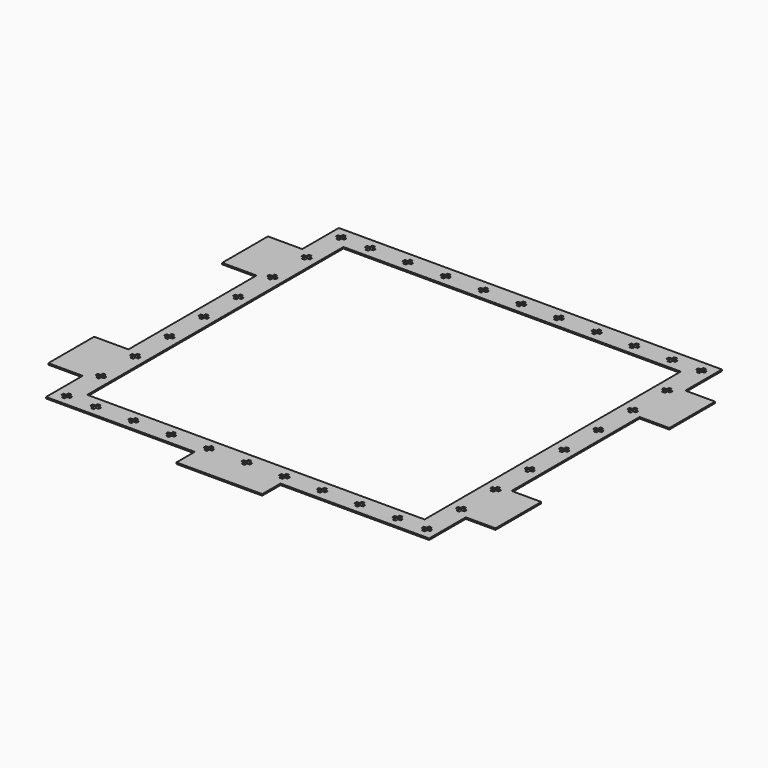
from build123d import *

# Parameters (mm, degrees)
F0_W     = 749.3
F0_H     = 711.2
F1_DEPTH = 3.175
F3_DEPTH = 25.4


with BuildPart() as f1:
    # F0 (on Top) → F1 (new body)
    with BuildSketch(Plane.XY):
        Polygon((425.45, 304.8), (425.45, 406.4), (-425.45, 406.4), (-425.45, 304.8), (-501.65, 304.8), (-501.65, 177.8), (-425.45, 177.8), (-425.45, -177.8), (-501.65, -177.8), (-501.65, -304.8), (-425.45, -304.8), (-425.45, -406.4), (-95.25, -406.4), (-95.25, -457.2), (95.25, -457.2), (95.25, -406.4), (425.45, -406.4), (425.45, -304.8), (491.49, -304.8), (491.49, -177.8), (425.45, -177.8), (425.45, 177.8), (491.49, 177.8), (491.49, 304.8), align=None)
        Rectangle(F0_W, F0_H, mode=Mode.SUBTRACT)
    extrude(amount=F1_DEPTH)

    # F2 (on face) → F3 (cut)
    with BuildSketch(Plane.XY.offset(3.175)):
        Polygon((-396.875, 3.175), (-396.875, 9.525), (-403.225, 9.525), (-403.225, 3.175), (-409.575, 3.175), (-409.575, -3.175), (-403.225, -3.175), (-403.225, -9.525), (-396.875, -9.525), (-396.875, -3.175), (-390.525, -3.175), (-390.525, 3.175), align=None)
        Polygon((-396.875, 85.725), (-396.875, 92.075), (-390.525, 92.075), (-390.525, 98.425), (-396.875, 98.425), (-396.875, 104.775), (-403.225, 104.775), (-403.225, 98.425), (-409.575, 98.425), (-409.575, 92.075), (-403.225, 92.075), (-403.225, 85.725), align=None)
        Polygon((-396.875, 180.975), (-396.875, 187.325), (-390.525, 187.325), (-390.525, 193.675), (-396.875, 193.675), (-396.875, 200.025), (-403.225, 200.025), (-403.225, 193.675), (-409.575, 193.675), (-409.575, 187.325), (-403.225, 187.325), (-403.225, 180.975), align=None)
        Polygon((-396.875, 276.225), (-396.875, 282.575), (-390.525, 282.575), (-390.525, 288.925), (-396.875, 288.925), (-396.875, 295.275), (-403.225, 295.275), (-403.225, 288.925), (-409.575, 288.925), (-409.575, 282.575), (-403.225, 282.575), (-403.225, 276.225), align=None)
        Polygon((-396.875, 371.475), (-396.875, 377.825), (-390.525, 377.825), (-390.525, 384.175), (-396.875, 384.175), (-396.875, 390.525), (-403.225, 390.525), (-403.225, 384.175), (-409.575, 384.175), (-409.575, 377.825), (-403.225, 377.825), (-403.225, 371.475), align=None)
        Polygon((-403.225, -85.725), (-403.225, -92.075), (-409.575, -92.075), (-409.575, -98.425), (-403.225, -98.425), (-403.225, -104.775), (-396.875, -104.775), (-396.875, -98.425), (-390.525, -98.425), (-390.525, -92.075), (-396.875, -92.075), (-396.875, -85.725), align=None)
        Polygon((-403.225, -180.975), (-403.225, -187.325), (-409.575, -187.325), (-409.575, -193.675), (-403.225, -193.675), (-403.225, -200.025), (-396.875, -200.025), (-396.875, -193.675), (-390.525, -193.675), (-390.525, -187.325), (-396.875, -187.325), (-396.875, -180.975), align=None)
        Polygon((-403.225, -276.225), (-403.225, -282.575), (-409.575, -282.575), (-409.575, -288.925), (-403.225, -288.925), (-403.225, -295.275), (-396.875, -295.275), (-396.875, -288.925), (-390.525, -288.925), (-390.525, -282.575), (-396.875, -282.575), (-396.875, -276.225), align=None)
        Polygon((-403.225, -371.475), (-403.225, -377.825), (-409.575, -377.825), (-409.575, -384.175), (-403.225, -384.175), (-403.225, -390.525), (-396.875, -390.525), (-396.875, -384.175), (-390.525, -384.175), (-390.525, -377.825), (-396.875, -377.825), (-396.875, -371.475), align=None)
        Polygon((-3.359012, -371.506711), (-3.359012, -377.856711), (-9.709012, -377.856711), (-9.709012, -384.206711), (-3.359012, -384.206711), (-3.359012, -390.556711), (2.990988, -390.556711), (2.990988, -384.206711), (9.340988, -384.206711), (9.340988, -377.856711), (2.990988, -377.856711), (2.990988, -371.506711), align=None)
        Polygon((86.810988, -371.506711), (80.460988, -371.506711), (80.460988, -377.856711), (74.110988, -377.856711), (74.110988, -384.206711), (80.460988, -384.206711), (80.460988, -390.556711), (86.810988, -390.556711), (86.810988, -384.206711), (93.160988, -384.206711), (93.160988, -377.856711), (86.810988, -377.856711), align=None)
        Polygon((170.630988, -371.506711), (164.280988, -371.506711), (164.280988, -377.856711), (157.930988, -377.856711), (157.930988, -384.206711), (164.280988, -384.206711), (164.280988, -390.556711), (170.630988, -390.556711), (170.630988, -384.206711), (176.980988, -384.206711), (176.980988, -377.856711), (170.630988, -377.856711), align=None)
        Polygon((254.450988, -371.506711), (248.100988, -371.506711), (248.100988, -377.856711), (241.750988, -377.856711), (241.750988, -384.206711), (248.100988, -384.206711), (248.100988, -390.556711), (254.450988, -390.556711), (254.450988, -384.206711), (260.800988, -384.206711), (260.800988, -377.856711), (254.450988, -377.856711), align=None)
        Polygon((338.270988, -371.506711), (331.920988, -371.506711), (331.920988, -377.856711), (325.570988, -377.856711), (325.570988, -384.206711), (331.920988, -384.206711), (331.920988, -390.556711), (338.270988, -390.556711), (338.270988, -384.206711), (344.620988, -384.206711), (344.620988, -377.856711), (338.270988, -377.856711), align=None)
        Polygon((-80.829012, -390.556711), (-80.829012, -384.206711), (-74.479012, -384.206711), (-74.479012, -377.856711), (-80.829012, -377.856711), (-80.829012, -371.506711), (-87.179012, -371.506711), (-87.179012, -377.856711), (-93.529012, -377.856711), (-93.529012, -384.206711), (-87.179012, -384.206711), (-87.179012, -390.556711), align=None)
        Polygon((-164.649012, -390.556711), (-164.649012, -384.206711), (-158.299012, -384.206711), (-158.299012, -377.856711), (-164.649012, -377.856711), (-164.649012, -371.506711), (-170.999012, -371.506711), (-170.999012, -377.856711), (-177.349012, -377.856711), (-177.349012, -384.206711), (-170.999012, -384.206711), (-170.999012, -390.556711), align=None)
        Polygon((-248.469012, -390.556711), (-248.469012, -384.206711), (-242.119012, -384.206711), (-242.119012, -377.856711), (-248.469012, -377.856711), (-248.469012, -371.506711), (-254.819012, -371.506711), (-254.819012, -377.856711), (-261.169012, -377.856711), (-261.169012, -384.206711), (-254.819012, -384.206711), (-254.819012, -390.556711), align=None)
        Polygon((-332.289012, -390.556711), (-332.289012, -384.206711), (-325.939012, -384.206711), (-325.939012, -377.856711), (-332.289012, -377.856711), (-332.289012, -371.506711), (-338.639012, -371.506711), (-338.639012, -377.856711), (-344.989012, -377.856711), (-344.989012, -384.206711), (-338.639012, -384.206711), (-338.639012, -390.556711), align=None)
        Polygon((80.460988, 371.506711), (86.810988, 371.506711), (86.810988, 377.856711), (93.160988, 377.856711), (93.160988, 384.206711), (86.810988, 384.206711), (86.810988, 390.556711), (80.460988, 390.556711), (80.460988, 384.206711), (74.110988, 384.206711), (74.110988, 377.856711), (80.460988, 377.856711), align=None)
        Polygon((176.980988, 377.856711), (176.980988, 384.206711), (170.630988, 384.206711), (170.630988, 390.556711), (164.280988, 390.556711), (164.280988, 384.206711), (157.930988, 384.206711), (157.930988, 377.856711), (164.280988, 377.856711), (164.280988, 371.506711), (170.630988, 371.506711), (170.630988, 377.856711), align=None)
        Polygon((248.100988, 377.856711), (248.100988, 371.506711), (254.450988, 371.506711), (254.450988, 377.856711), (260.800988, 377.856711), (260.800988, 384.206711), (254.450988, 384.206711), (254.450988, 390.556711), (248.100988, 390.556711), (248.100988, 384.206711), (241.750988, 384.206711), (241.750988, 377.856711), align=None)
        Polygon((2.990988, 384.206711), (2.990988, 390.556711), (-3.359012, 390.556711), (-3.359012, 384.206711), (-9.709012, 384.206711), (-9.709012, 377.856711), (-3.359012, 377.856711), (-3.359012, 371.506711), (2.990988, 371.506711), (2.990988, 377.856711), (9.340988, 377.856711), (9.340988, 384.206711), align=None)
        Polygon((-87.179012, 371.506711), (-80.829012, 371.506711), (-80.829012, 377.856711), (-74.479012, 377.856711), (-74.479012, 384.206711), (-80.829012, 384.206711), (-80.829012, 390.556711), (-87.179012, 390.556711), (-87.179012, 384.206711), (-93.529012, 384.206711), (-93.529012, 377.856711), (-87.179012, 377.856711), align=None)
        Polygon((-261.169012, 377.856711), (-254.819012, 377.856711), (-254.819012, 371.506711), (-248.469012, 371.506711), (-248.469012, 377.856711), (-242.119012, 377.856711), (-242.119012, 384.206711), (-248.469012, 384.206711), (-248.469012, 390.556711), (-254.819012, 390.556711), (-254.819012, 384.206711), (-261.169012, 384.206711), align=None)
        Polygon((338.270988, 384.206711), (338.270988, 390.556711), (331.920988, 390.556711), (331.920988, 384.206711), (325.570988, 384.206711), (325.570988, 377.856711), (331.920988, 377.856711), (331.920988, 371.506711), (338.270988, 371.506711), (338.270988, 377.856711), (344.620988, 377.856711), (344.620988, 384.206711), align=None)
        Polygon((-338.639012, 390.556711), (-338.639012, 384.206711), (-344.989012, 384.206711), (-344.989012, 377.856711), (-338.639012, 377.856711), (-338.639012, 371.506711), (-332.289012, 371.506711), (-332.289012, 377.856711), (-325.939012, 377.856711), (-325.939012, 384.206711), (-332.289012, 384.206711), (-332.289012, 390.556711), align=None)
        Polygon((-164.649012, 377.856711), (-158.299012, 377.856711), (-158.299012, 384.206711), (-164.649012, 384.206711), (-164.649012, 390.556711), (-170.999012, 390.556711), (-170.999012, 384.206711), (-177.349012, 384.206711), (-177.349012, 377.856711), (-170.999012, 377.856711), (-170.999012, 371.506711), (-164.649012, 371.506711), align=None)
        Polygon((390.525, 3.175), (390.525, -3.175), (396.875, -3.175), (396.875, -9.525), (403.225, -9.525), (403.225, -3.175), (409.575, -3.175), (409.575, 3.175), (403.225, 3.175), (403.225, 9.525), (396.875, 9.525), (396.875, 3.175), align=None)
        Polygon((403.225, 390.525), (396.875, 390.525), (396.875, 384.175), (390.525, 384.175), (390.525, 377.825), (396.875, 377.825), (396.875, 371.475), (403.225, 371.475), (403.225, 377.825), (409.575, 377.825), (409.575, 384.175), (403.225, 384.175), align=None)
        Polygon((390.525, 98.425), (390.525, 92.075), (396.875, 92.075), (396.875, 85.725), (403.225, 85.725), (403.225, 92.075), (409.575, 92.075), (409.575, 98.425), (403.225, 98.425), (403.225, 104.775), (396.875, 104.775), (396.875, 98.425), align=None)
        Polygon((403.225, -104.775), (403.225, -98.425), (409.575, -98.425), (409.575, -92.075), (403.225, -92.075), (403.225, -85.725), (396.875, -85.725), (396.875, -92.075), (390.525, -92.075), (390.525, -98.425), (396.875, -98.425), (396.875, -104.775), align=None)
        Polygon((409.575, -377.825), (403.225, -377.825), (403.225, -371.475), (396.875, -371.475), (396.875, -377.825), (390.525, -377.825), (390.525, -384.175), (396.875, -384.175), (396.875, -390.525), (403.225, -390.525), (403.225, -384.175), (409.575, -384.175), align=None)
        Polygon((409.575, -187.325), (403.225, -187.325), (403.225, -180.975), (396.875, -180.975), (396.875, -187.325), (390.525, -187.325), (390.525, -193.675), (396.875, -193.675), (396.875, -200.025), (403.225, -200.025), (403.225, -193.675), (409.575, -193.675), align=None)
        Polygon((403.225, 276.225), (403.225, 282.575), (409.575, 282.575), (409.575, 288.925), (403.225, 288.925), (403.225, 295.275), (396.875, 295.275), (396.875, 288.925), (390.525, 288.925), (390.525, 282.575), (396.875, 282.575), (396.875, 276.225), align=None)
        Polygon((403.225, -295.275), (403.225, -288.925), (409.575, -288.925), (409.575, -282.575), (403.225, -282.575), (403.225, -276.225), (396.875, -276.225), (396.875, -282.575), (390.525, -282.575), (390.525, -288.925), (396.875, -288.925), (396.875, -295.275), align=None)
        Polygon((403.225, 180.975), (403.225, 187.325), (409.575, 187.325), (409.575, 193.675), (403.225, 193.675), (403.225, 200.025), (396.875, 200.025), (396.875, 193.675), (390.525, 193.675), (390.525, 187.325), (396.875, 187.325), (396.875, 180.975), align=None)
    extrude(amount=-F3_DEPTH, mode=Mode.SUBTRACT)


solid = f1.part
